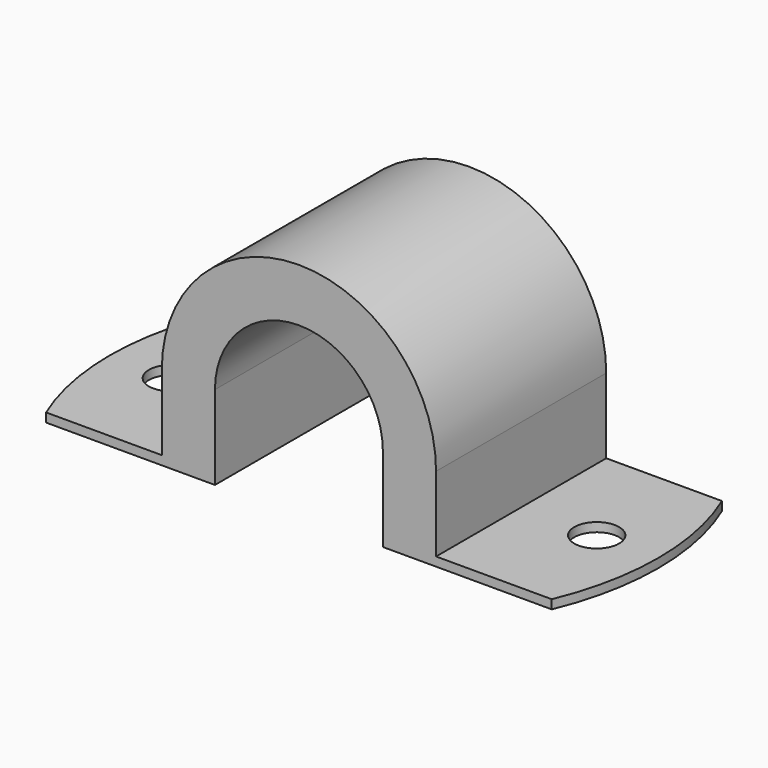
from build123d import *

# Parameters (mm, degrees)
F1_DEPTH = 19
F2_R     = 2
F3_DEPTH = 25


with BuildPart() as f1:
    # F0 (on Front) → F1 (new body)
    with BuildSketch(Plane.XZ):
        with BuildLine():
            ThreePointArc((-7.5, 7.5), (0, 15), (7.5, 7.5))
            Line((7.5, 7.5), (7.5, 0))
            Line((7.5, 0), (24.5, 0))
            Line((24.5, 0), (24.5, 0.8))
            Line((24.5, 0.8), (12.25, 0.8))
            Line((12.25, 0.8), (12.25, 7.5))
            ThreePointArc((12.25, 7.5), (0, 19.75), (-12.25, 7.5))
            Line((-12.25, 7.5), (-12.25, 0.8))
            Line((-12.25, 0.8), (-24.5, 0.8))
            Line((-24.5, 0.8), (-24.5, 0))
            Line((-24.5, 0), (-7.5, 0))
            Line((-7.5, 0), (-7.5, 7.5))
        make_face()
    extrude(amount=F1_DEPTH)

    # F2 (on face) → F3 (cut)
    with BuildSketch(Plane(origin=(0, 0, 0), x_dir=(1, 0, 0), z_dir=(0, 0, -1))):
        with Locations((-19, 9.5)):
            Circle(F2_R)
        with Locations((19, 9.5)):
            Circle(F2_R)
        with BuildLine():
            ThreePointArc((-22.58318, 0), (-24.016014, 4.654275), (-24.5, 9.5))
            Line((-24.5, 9.5), (-24.5, 0))
            Line((-24.5, 0), (-22.58318, 0))
        make_face()
        with BuildLine():
            ThreePointArc((-24.5, 9.5), (-24.016014, 14.345725), (-22.58318, 19))
            Line((-22.58318, 19), (-24.5, 19))
            Line((-24.5, 19), (-24.5, 9.5))
        make_face()
        with BuildLine():
            ThreePointArc((22.58318, 19), (24.5, 9.5), (22.58318, 0))
            Line((22.58318, 0), (24.50018, 0))
            Line((24.50018, 0), (24.50018, 19))
            Line((24.50018, 19), (22.58318, 19))
        make_face()
    extrude(amount=-F3_DEPTH, mode=Mode.SUBTRACT)


solid = f1.part
